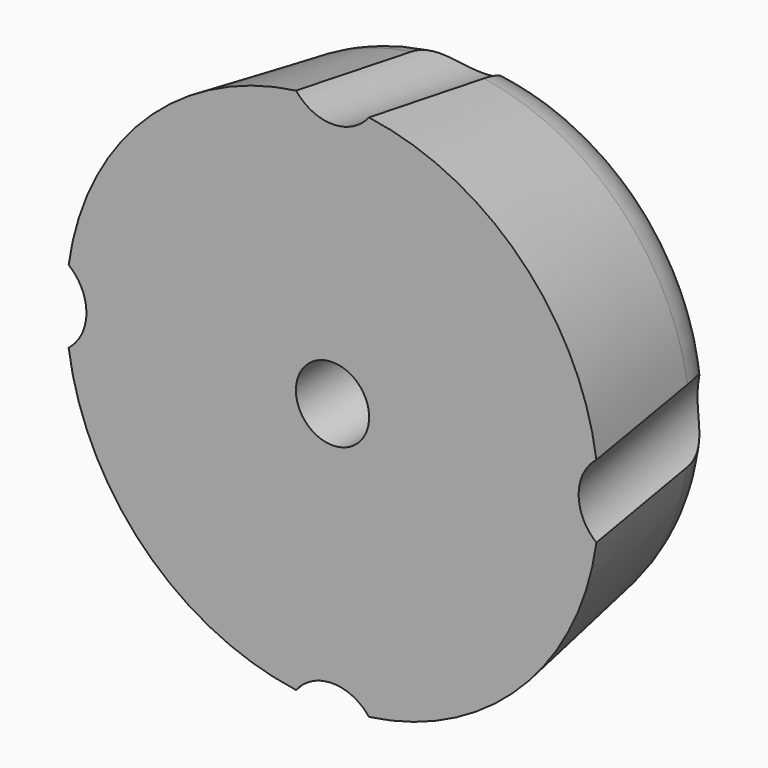
from build123d import *

# Parameters (mm, degrees)
F2_R     = 0.4
F3_DEPTH = 0.4
F6_COUNT = 4
F8_R     = 1.1
F9_DEPTH = 6.001


with BuildPart() as f1:
    # F0 (on Top) → F1 (revolve)
    with BuildSketch(Plane.XY):
        with BuildLine():
            Line((-8, 0), (0, 0))
            Line((0, 0), (0, 6))
            Line((0, 6), (-5.305746, 6))
            ThreePointArc((-5.305746, 6), (-6.598496, 5.52604), (-7.278534, 4.328798))
            Line((-7.278534, 4.328798), (-8, 0))
        make_face()
    revolve(axis=Axis((0, 13.402597, 0), (0, 1, 0)))

    # F2 (on face) → F3 (join)
    with BuildSketch(Plane(origin=(0, 6, 0), x_dir=(-1, 0, 0), z_dir=(0, 1, 0))):
        with Locations((0, 4.5)):
            Circle(F2_R)
        with Locations((4.5, 0)):
            Circle(F2_R)
        with Locations((0, -4.5)):
            Circle(F2_R)
        with Locations((-4.5, 0)):
            Circle(F2_R)
        with Locations((-3.181981, 3.181981)):
            Circle(F2_R)
        with Locations((3.181981, 3.181981)):
            Circle(F2_R)
        with Locations((3.181981, -3.181981)):
            Circle(F2_R)
        with Locations((-3.181981, -3.181981)):
            Circle(F2_R)
    extrude(amount=F3_DEPTH)


with BuildPart() as f5:
    # F4 (on Right) → F5 (revolve)
    with BuildSketch(Plane.YZ):
        Polygon((-0.443557, 10.304272), (-0.673715, 8.923321), (6.578678, 7.714589), (6.808836, 9.09554), align=None)
    revolve(axis=Axis((0, 5.520192, 7.891003), (0, 0.986394, -0.164399)))


with BuildPart() as f6_1:
    # F6: instance of F5
    add(f5.part.rotate(Axis((0, 0, 0), (0, 1, 0)), 1 * 360 / F6_COUNT))


with BuildPart() as f6_2:
    # F6: instance of F5
    add(f5.part.rotate(Axis((0, 0, 0), (0, 1, 0)), 2 * 360 / F6_COUNT))


with BuildPart() as f6_3:
    # F6: instance of F5
    add(f5.part.rotate(Axis((0, 0, 0), (0, 1, 0)), 3 * 360 / F6_COUNT))


with BuildPart() as f1_1:
    add(f1.part)

    # F7: cut F5, F6_1, F6_2, F6_3
    add(f5.part, mode=Mode.SUBTRACT)
    add(f6_1.part, mode=Mode.SUBTRACT)
    add(f6_2.part, mode=Mode.SUBTRACT)
    add(f6_3.part, mode=Mode.SUBTRACT)

    # F8 (on face) → F9 (cut, through all)
    with BuildSketch(Plane(origin=(0, 6, 0), x_dir=(-1, 0, 0), z_dir=(0, 1, 0))):
        Circle(F8_R)
    extrude(amount=-F9_DEPTH, mode=Mode.SUBTRACT)


solid = f1_1.part
